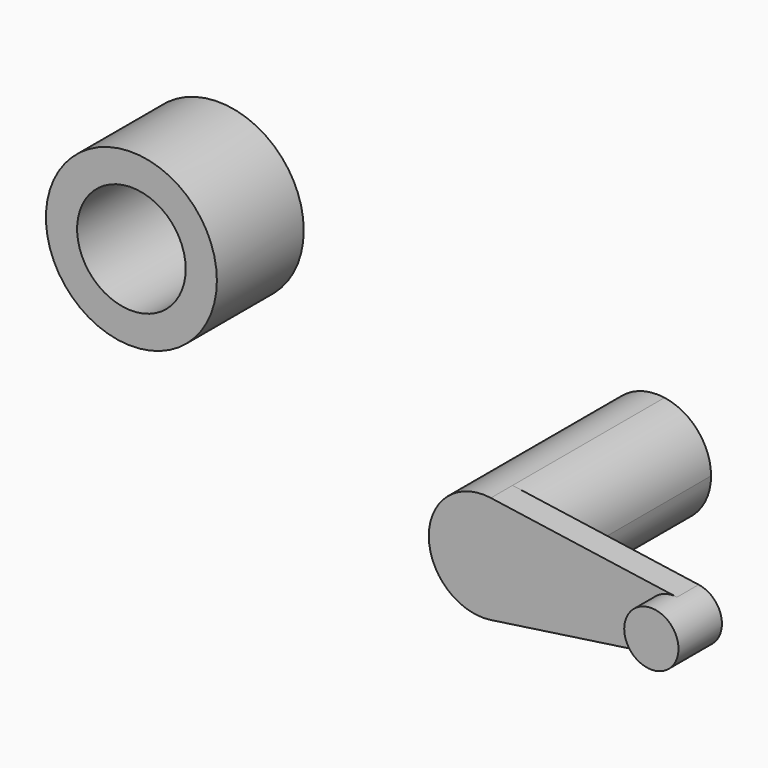
from build123d import *

# Parameters (mm, degrees)
F1_DEPTH = 50.8
F2_START = 44.45
F2_DEPTH = 6.35
F3_START = 50.8
F3_DEPTH = 6.35
F4_R     = 20
F4_R_2   = 12.7
F5_DEPTH = 25.4


with BuildPart() as f1:
    # F0 (on Front) → F1 (new body)
    with BuildSketch(Plane.XZ):
        with BuildLine():
            ThreePointArc((1.8142857143, -12.5697401464), (9.6002976144, -8.314101618), (12.7, 0))
            ThreePointArc((12.7, 0), (9.6002976144, 8.314101618), (1.8142857143, 12.5697401464))
            ThreePointArc((1.8142857143, 12.5697401464), (-12.7, 0), (1.8142857143, -12.5697401464))
        make_face()
    extrude(amount=F1_DEPTH)

    # F0 (on Front) → F2 (join)
    with BuildSketch(Plane.XZ.offset(F2_START)):
        with BuildLine():
            ThreePointArc((1.8142857143, 12.5697401464), (9.6002976144, 8.314101618), (12.7, 0))
            Line((12.7, 0), (38.1, 0))
            ThreePointArc((38.1, 0), (40.292949191, 4.8001488072), (45.3571428571, 6.2848700732))
            Line((45.3571428571, 6.2848700732), (1.8142857143, 12.5697401464))
        make_face()
        with BuildLine():
            Line((38.1, 0), (12.7, 0))
            ThreePointArc((12.7, 0), (9.6002976144, -8.314101618), (1.8142857143, -12.5697401464))
            Line((1.8142857143, -12.5697401464), (45.3571428571, -6.2848700732))
            ThreePointArc((45.3571428571, -6.2848700732), (40.292949191, -4.8001488072), (38.1, 0))
        make_face()
        with BuildLine():
            ThreePointArc((45.3571428571, 6.2848700732), (40.292949191, 4.8001488072), (38.1, 0))
            ThreePointArc((38.1, 0), (40.292949191, -4.8001488072), (45.3571428571, -6.2848700732))
            ThreePointArc((45.3571428571, -6.2848700732), (49.2501488072, -4.157050809), (50.8, 0))
            ThreePointArc((50.8, 0), (49.2501488072, 4.157050809), (45.3571428571, 6.2848700732))
        make_face()
    extrude(amount=F2_DEPTH)

    # F0 (on Front) → F3 (join)
    with BuildSketch(Plane.XZ.offset(F3_START)):
        with BuildLine():
            ThreePointArc((45.3571428571, 6.2848700732), (40.292949191, 4.8001488072), (38.1, 0))
            ThreePointArc((38.1, 0), (40.292949191, -4.8001488072), (45.3571428571, -6.2848700732))
            ThreePointArc((45.3571428571, -6.2848700732), (49.2501488072, -4.157050809), (50.8, 0))
            ThreePointArc((50.8, 0), (49.2501488072, 4.157050809), (45.3571428571, 6.2848700732))
        make_face()
    extrude(amount=F3_DEPTH)


with BuildPart() as f5:
    # F4 (on Front) → F5 (new body)
    with BuildSketch(Plane.XZ):
        with Locations((-102.6025786996, 19.5669587702)):
            Circle(F4_R)
        with Locations((-102.6025786996, 19.5669587702)):
            Circle(F4_R_2, mode=Mode.SUBTRACT)
    extrude(amount=F5_DEPTH)


solid = Compound([f1.part, f5.part])
